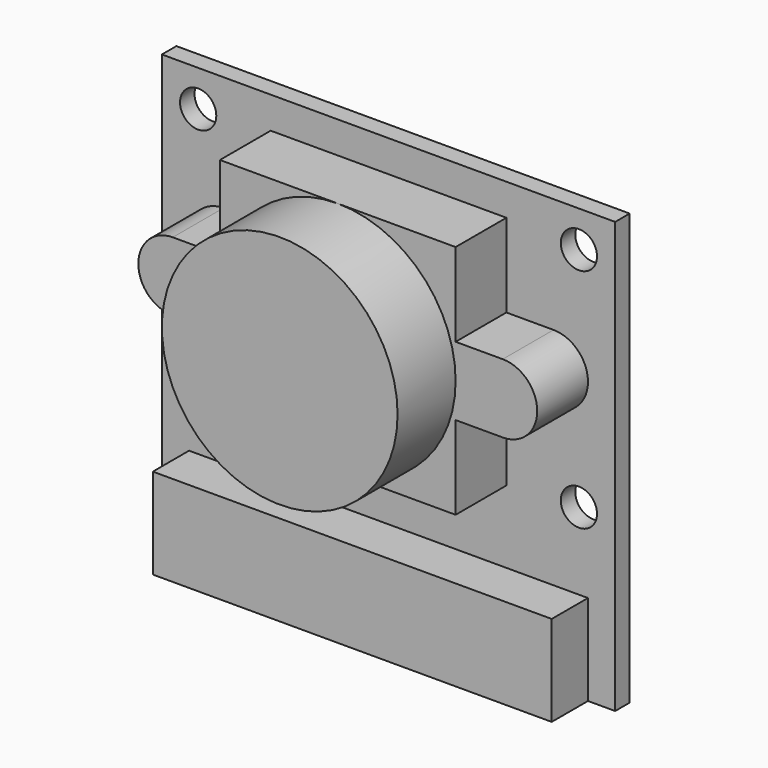
from build123d import *

# Parameters (mm, degrees)
F0_W     = 25
F0_H     = 23.75
F0_R     = 1
F1_DEPTH = 1
F3_DEPTH = 2.5
F5_DEPTH = 3.5
F6_R     = 6.5
F7_DEPTH = 4


with BuildPart() as f1:
    # F0 (on Front) → F1 (new body)
    with BuildSketch(Plane.XZ):
        Rectangle(F0_W, F0_H)
        with Locations((-10.5, -2.625)):
            Circle(F0_R, mode=Mode.SUBTRACT)
        with Locations((10.5, -2.625)):
            Circle(F0_R, mode=Mode.SUBTRACT)
        with Locations((-10.5, 9.875)):
            Circle(F0_R, mode=Mode.SUBTRACT)
        with Locations((10.5, 9.875)):
            Circle(F0_R, mode=Mode.SUBTRACT)
    extrude(amount=F1_DEPTH)


with BuildPart() as f3:
    # F2 (on face) → F3 (new body)
    with BuildSketch(Plane.XZ.offset(1)):
        Polygon((-11, -6.875), (-11, -11.875), (0, -11.875), (11, -11.875), (11, -6.875), (0, -6.875), align=None)
    extrude(amount=F3_DEPTH)


with BuildPart() as f5:
    # F4 (on face) → F5 (new body)
    with BuildSketch(Plane.XZ.offset(1)):
        with BuildLine():
            Line((-6.5, -2.875), (6.5, -2.875))
            Line((6.5, -2.875), (6.5, 1.725))
            Line((6.5, 1.725), (9.1, 1.725))
            ThreePointArc((9.1, 1.725), (11, 3.625), (9.1, 5.525))
            Line((9.1, 5.525), (6.5, 5.525))
            Line((6.5, 5.525), (6.5, 10.125))
            Line((6.5, 10.125), (-6.5, 10.125))
            Line((-6.5, 10.125), (-6.5, 5.525))
            Line((-6.5, 5.525), (-9.1, 5.525))
            ThreePointArc((-9.1, 5.525), (-11, 3.625), (-9.1, 1.725))
            Line((-9.1, 1.725), (-6.5, 1.725))
            Line((-6.5, 1.725), (-6.5, -2.875))
        make_face()
    extrude(amount=F5_DEPTH)

    # F6 (on face) → F7 (join)
    with BuildSketch(Plane.XZ.offset(4.5)):
        with Locations((0, 3.625)):
            Circle(F6_R)
    extrude(amount=F7_DEPTH)


solid = Compound([f1.part, f3.part, f5.part])
